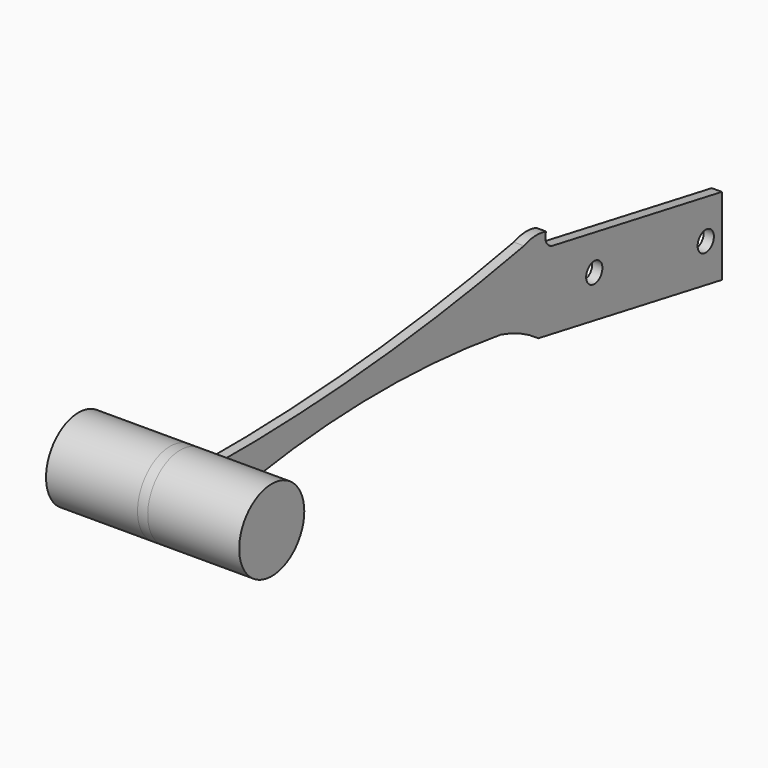
from build123d import *

# Parameters (mm, degrees)
F0_R          = 4.7625
F0_R_2        = 3.175
F1_DEPTH      = 3.175
F2_R          = 12.7
F3_DEPTH      = 31.75
F3_DEPTH_BACK = 28.575


with BuildPart() as f1:
    # F0 (on Right) → F1 (new body)
    with BuildSketch(Plane.YZ):
        with BuildLine():
            Line((194.222937, -75.896066), (199.837454, -52.714848))
            ThreePointArc((199.837454, -52.714848), (197.343361, -50.871673), (197.273806, -47.771197))
            ThreePointArc((197.273806, -47.771197), (192.906665, -47.242193), (188.611001, -48.190366))
            ThreePointArc((188.611001, -48.190366), (127.959227, -56.863753), (66.740255, -59.334101))
            ThreePointArc((66.740255, -59.334101), (43.22785, -56.518652), (58.68969, -74.45441))
            ThreePointArc((58.68969, -74.45441), (118.843076, -65.773207), (179.537445, -68.93336))
            ThreePointArc((179.537445, -68.93336), (187.206277, -71.726944), (194.222937, -75.896066))
        make_face()
        with Locations((54.437917, -62.487271)):
            Circle(F0_R, mode=Mode.SUBTRACT)
        Polygon((265.879052, -64.764367), (199.837454, -52.714848), (194.222937, -75.896066), (265.879052, -88.969973), align=None)
        with Locations((259.567566, -75.763282)):
            Circle(F0_R_2, mode=Mode.SUBTRACT)
        with Locations((216.053504, -66.689754)):
            Circle(F0_R_2, mode=Mode.SUBTRACT)
    extrude(amount=F1_DEPTH)

    # F2 (on Right) → F3 (join, two sides)
    with BuildSketch(Plane.YZ) as f3_sk:
        with Locations((54.437917, -62.487271)):
            Circle(F2_R)
    extrude(amount=F3_DEPTH)
    extrude(f3_sk.sketch, amount=-F3_DEPTH_BACK)


solid = f1.part
